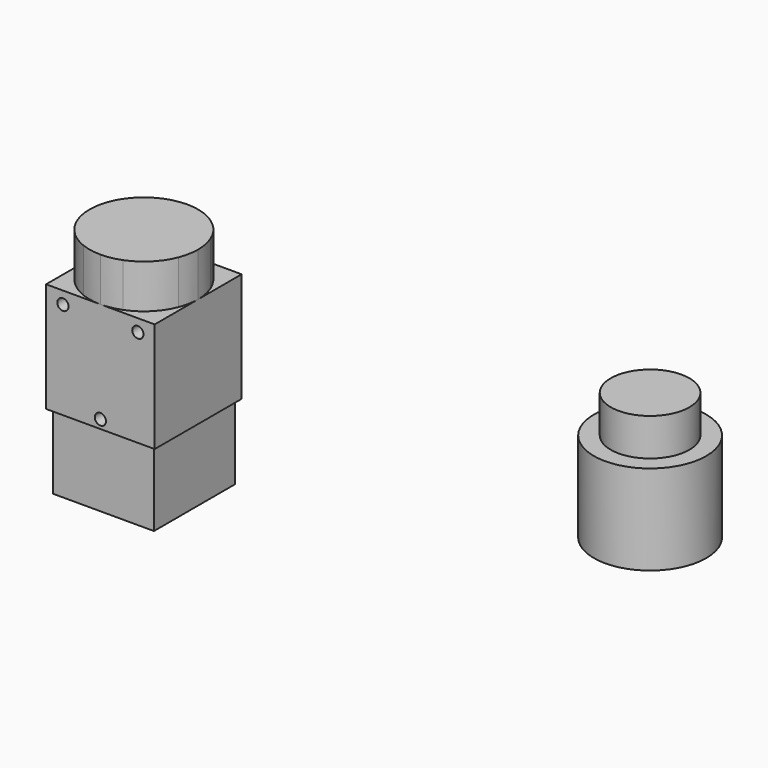
from build123d import *

# Parameters (mm, degrees)
F1_DEPTH = 29.3
F2_DEPTH = 41
F0_R     = 15
F0_R_2   = 10.5
F3_DEPTH = 24
F4_DEPTH = 34
F5_DEPTH = 20
F7_D     = 3
F7_DEPTH = 6
F7_TIP   = 0.9012909285


with BuildPart() as f1:
    # F0 (on Top) → F1 (new body)
    with BuildSketch(Plane.XY):
        with BuildLine():
            Line((-63.763101964, 40.5936958569), (-78.263101964, 40.5936958569))
            ThreePointArc((-78.263101964, 40.5936958569), (-75.5705195605, 40.3415027057), (-72.9715993419, 39.5936958569))
            Line((-72.9715993419, 39.5936958569), (-64.763101964, 39.5936958569))
            Line((-64.763101964, 39.5936958569), (-64.763101964, 31.3851984791))
            ThreePointArc((-64.763101964, 31.3851984791), (-64.0152951153, 28.7862782605), (-63.763101964, 26.0936958569))
            Line((-63.763101964, 26.0936958569), (-63.763101964, 40.5936958569))
        make_face()
        with BuildLine():
            Line((-63.763101964, 11.5936958569), (-63.763101964, 26.0936958569))
            ThreePointArc((-63.763101964, 26.0936958569), (-64.0152951153, 23.4011134534), (-64.763101964, 20.8021932348))
            Line((-64.763101964, 20.8021932348), (-64.763101964, 12.5936958569))
            Line((-64.763101964, 12.5936958569), (-72.9715993419, 12.5936958569))
            ThreePointArc((-72.9715993419, 12.5936958569), (-75.5705195605, 11.8458890082), (-78.263101964, 11.5936958569))
            Line((-78.263101964, 11.5936958569), (-63.763101964, 11.5936958569))
        make_face()
        with BuildLine():
            ThreePointArc((-72.9715993419, 39.5936958569), (-75.5705195605, 40.3415027057), (-78.263101964, 40.5936958569))
            ThreePointArc((-78.263101964, 40.5936958569), (-80.9556843676, 40.3415027057), (-83.5546045862, 39.5936958569))
            Line((-83.5546045862, 39.5936958569), (-72.9715993419, 39.5936958569))
        make_face()
        with BuildLine():
            Line((-78.263101964, 40.5936958569), (-92.763101964, 40.5936958569))
            Line((-92.763101964, 40.5936958569), (-92.763101964, 26.0936958569))
            ThreePointArc((-92.763101964, 26.0936958569), (-92.5109088128, 28.7862782605), (-91.763101964, 31.3851984791))
            Line((-91.763101964, 31.3851984791), (-91.763101964, 39.5936958569))
            Line((-91.763101964, 39.5936958569), (-83.5546045862, 39.5936958569))
            ThreePointArc((-83.5546045862, 39.5936958569), (-80.9556843676, 40.3415027057), (-78.263101964, 40.5936958569))
        make_face()
        with BuildLine():
            ThreePointArc((-64.763101964, 31.3851984791), (-68.0100536368, 36.3467441841), (-72.9715993419, 39.5936958569))
            Line((-72.9715993419, 39.5936958569), (-83.5546045862, 39.5936958569))
            ThreePointArc((-83.5546045862, 39.5936958569), (-88.5161502912, 36.3467441841), (-91.763101964, 31.3851984791))
            Line((-91.763101964, 31.3851984791), (-91.763101964, 20.8021932348))
            ThreePointArc((-91.763101964, 20.8021932348), (-88.5161502912, 15.8406475297), (-83.5546045862, 12.5936958569))
            Line((-83.5546045862, 12.5936958569), (-72.9715993419, 12.5936958569))
            ThreePointArc((-72.9715993419, 12.5936958569), (-68.0100536368, 15.8406475297), (-64.763101964, 20.8021932348))
            Line((-64.763101964, 20.8021932348), (-64.763101964, 31.3851984791))
        make_face()
        with BuildLine():
            Line((-64.763101964, 39.5936958569), (-72.9715993419, 39.5936958569))
            ThreePointArc((-72.9715993419, 39.5936958569), (-68.0100536368, 36.3467441841), (-64.763101964, 31.3851984791))
            Line((-64.763101964, 31.3851984791), (-64.763101964, 39.5936958569))
        make_face()
        with BuildLine():
            ThreePointArc((-91.763101964, 31.3851984791), (-88.5161502912, 36.3467441841), (-83.5546045862, 39.5936958569))
            Line((-83.5546045862, 39.5936958569), (-91.763101964, 39.5936958569))
            Line((-91.763101964, 39.5936958569), (-91.763101964, 31.3851984791))
        make_face()
        with BuildLine():
            ThreePointArc((-83.5546045862, 12.5936958569), (-88.5161502912, 15.8406475297), (-91.763101964, 20.8021932348))
            Line((-91.763101964, 20.8021932348), (-91.763101964, 12.5936958569))
            Line((-91.763101964, 12.5936958569), (-83.5546045862, 12.5936958569))
        make_face()
        with BuildLine():
            Line((-64.763101964, 12.5936958569), (-64.763101964, 20.8021932348))
            ThreePointArc((-64.763101964, 20.8021932348), (-68.0100536368, 15.8406475297), (-72.9715993419, 12.5936958569))
            Line((-72.9715993419, 12.5936958569), (-64.763101964, 12.5936958569))
        make_face()
        with BuildLine():
            ThreePointArc((-83.5546045862, 12.5936958569), (-80.9556843676, 11.8458890082), (-78.263101964, 11.5936958569))
            ThreePointArc((-78.263101964, 11.5936958569), (-75.5705195605, 11.8458890082), (-72.9715993419, 12.5936958569))
            Line((-72.9715993419, 12.5936958569), (-83.5546045862, 12.5936958569))
        make_face()
        with BuildLine():
            ThreePointArc((-91.763101964, 20.8021932348), (-92.5109088128, 23.4011134534), (-92.763101964, 26.0936958569))
            Line((-92.763101964, 26.0936958569), (-92.763101964, 11.5936958569))
            Line((-92.763101964, 11.5936958569), (-78.263101964, 11.5936958569))
            ThreePointArc((-78.263101964, 11.5936958569), (-80.9556843676, 11.8458890082), (-83.5546045862, 12.5936958569))
            Line((-83.5546045862, 12.5936958569), (-91.763101964, 12.5936958569))
            Line((-91.763101964, 12.5936958569), (-91.763101964, 20.8021932348))
        make_face()
        with BuildLine():
            ThreePointArc((-64.763101964, 20.8021932348), (-64.0152951153, 23.4011134534), (-63.763101964, 26.0936958569))
            ThreePointArc((-63.763101964, 26.0936958569), (-64.0152951153, 28.7862782605), (-64.763101964, 31.3851984791))
            Line((-64.763101964, 31.3851984791), (-64.763101964, 20.8021932348))
        make_face()
        with BuildLine():
            ThreePointArc((-91.763101964, 31.3851984791), (-92.5109088128, 28.7862782605), (-92.763101964, 26.0936958569))
            ThreePointArc((-92.763101964, 26.0936958569), (-92.5109088128, 23.4011134534), (-91.763101964, 20.8021932348))
            Line((-91.763101964, 20.8021932348), (-91.763101964, 31.3851984791))
        make_face()
    extrude(amount=F1_DEPTH)

    # F0 (on Top) → F2 (join)
    with BuildSketch(Plane.XY):
        with BuildLine():
            ThreePointArc((-72.9715993419, 39.5936958569), (-75.5705195605, 40.3415027057), (-78.263101964, 40.5936958569))
            ThreePointArc((-78.263101964, 40.5936958569), (-80.9556843676, 40.3415027057), (-83.5546045862, 39.5936958569))
            Line((-83.5546045862, 39.5936958569), (-72.9715993419, 39.5936958569))
        make_face()
        with BuildLine():
            ThreePointArc((-64.763101964, 31.3851984791), (-68.0100536368, 36.3467441841), (-72.9715993419, 39.5936958569))
            Line((-72.9715993419, 39.5936958569), (-83.5546045862, 39.5936958569))
            ThreePointArc((-83.5546045862, 39.5936958569), (-88.5161502912, 36.3467441841), (-91.763101964, 31.3851984791))
            Line((-91.763101964, 31.3851984791), (-91.763101964, 20.8021932348))
            ThreePointArc((-91.763101964, 20.8021932348), (-88.5161502912, 15.8406475297), (-83.5546045862, 12.5936958569))
            Line((-83.5546045862, 12.5936958569), (-72.9715993419, 12.5936958569))
            ThreePointArc((-72.9715993419, 12.5936958569), (-68.0100536368, 15.8406475297), (-64.763101964, 20.8021932348))
            Line((-64.763101964, 20.8021932348), (-64.763101964, 31.3851984791))
        make_face()
        with BuildLine():
            ThreePointArc((-91.763101964, 31.3851984791), (-92.5109088128, 28.7862782605), (-92.763101964, 26.0936958569))
            ThreePointArc((-92.763101964, 26.0936958569), (-92.5109088128, 23.4011134534), (-91.763101964, 20.8021932348))
            Line((-91.763101964, 20.8021932348), (-91.763101964, 31.3851984791))
        make_face()
        with BuildLine():
            ThreePointArc((-83.5546045862, 12.5936958569), (-80.9556843676, 11.8458890082), (-78.263101964, 11.5936958569))
            ThreePointArc((-78.263101964, 11.5936958569), (-75.5705195605, 11.8458890082), (-72.9715993419, 12.5936958569))
            Line((-72.9715993419, 12.5936958569), (-83.5546045862, 12.5936958569))
        make_face()
        with BuildLine():
            ThreePointArc((-64.763101964, 20.8021932348), (-64.0152951153, 23.4011134534), (-63.763101964, 26.0936958569))
            ThreePointArc((-63.763101964, 26.0936958569), (-64.0152951153, 28.7862782605), (-64.763101964, 31.3851984791))
            Line((-64.763101964, 31.3851984791), (-64.763101964, 20.8021932348))
        make_face()
    extrude(amount=F2_DEPTH)

    # F0 (on Top) → F5 (join)
    with BuildSketch(Plane.XY):
        with BuildLine():
            ThreePointArc((-64.763101964, 31.3851984791), (-68.0100536368, 36.3467441841), (-72.9715993419, 39.5936958569))
            Line((-72.9715993419, 39.5936958569), (-83.5546045862, 39.5936958569))
            ThreePointArc((-83.5546045862, 39.5936958569), (-88.5161502912, 36.3467441841), (-91.763101964, 31.3851984791))
            Line((-91.763101964, 31.3851984791), (-91.763101964, 20.8021932348))
            ThreePointArc((-91.763101964, 20.8021932348), (-88.5161502912, 15.8406475297), (-83.5546045862, 12.5936958569))
            Line((-83.5546045862, 12.5936958569), (-72.9715993419, 12.5936958569))
            ThreePointArc((-72.9715993419, 12.5936958569), (-68.0100536368, 15.8406475297), (-64.763101964, 20.8021932348))
            Line((-64.763101964, 20.8021932348), (-64.763101964, 31.3851984791))
        make_face()
        with BuildLine():
            Line((-64.763101964, 39.5936958569), (-72.9715993419, 39.5936958569))
            ThreePointArc((-72.9715993419, 39.5936958569), (-68.0100536368, 36.3467441841), (-64.763101964, 31.3851984791))
            Line((-64.763101964, 31.3851984791), (-64.763101964, 39.5936958569))
        make_face()
        with BuildLine():
            ThreePointArc((-91.763101964, 31.3851984791), (-88.5161502912, 36.3467441841), (-83.5546045862, 39.5936958569))
            Line((-83.5546045862, 39.5936958569), (-91.763101964, 39.5936958569))
            Line((-91.763101964, 39.5936958569), (-91.763101964, 31.3851984791))
        make_face()
        with BuildLine():
            ThreePointArc((-83.5546045862, 12.5936958569), (-88.5161502912, 15.8406475297), (-91.763101964, 20.8021932348))
            Line((-91.763101964, 20.8021932348), (-91.763101964, 12.5936958569))
            Line((-91.763101964, 12.5936958569), (-83.5546045862, 12.5936958569))
        make_face()
        with BuildLine():
            Line((-64.763101964, 12.5936958569), (-64.763101964, 20.8021932348))
            ThreePointArc((-64.763101964, 20.8021932348), (-68.0100536368, 15.8406475297), (-72.9715993419, 12.5936958569))
            Line((-72.9715993419, 12.5936958569), (-64.763101964, 12.5936958569))
        make_face()
    extrude(amount=-F5_DEPTH)

    # F7
    with Locations(Plane.XZ.offset(-11.5936958569)):
        with Locations((-68.263101964, 26), (-78.263101964, 2.3), (-88.263101964, 26)):
            Hole(F7_D / 2, depth=F7_DEPTH)
            with Locations((0, 0, -(F7_DEPTH + F7_TIP / 2))):  # 118° drill point
                Cone(0, F7_D / 2, F7_TIP, mode=Mode.SUBTRACT)


with BuildPart() as f3:
    # F0 (on Top) → F3 (new body)
    with BuildSketch(Plane.XY):
        with Locations((41.7834050647, 44.9774078268)):
            Circle(F0_R)
        with Locations((41.7834050647, 44.9774078268)):
            Circle(F0_R_2, mode=Mode.SUBTRACT)
        with Locations((41.7834050647, 44.9774078268)):
            Circle(F0_R_2)
    extrude(amount=F3_DEPTH)

    # F0 (on Top) → F4 (join)
    with BuildSketch(Plane.XY):
        with Locations((41.7834050647, 44.9774078268)):
            Circle(F0_R_2)
    extrude(amount=F4_DEPTH)


solid = Compound([f1.part, f3.part])
